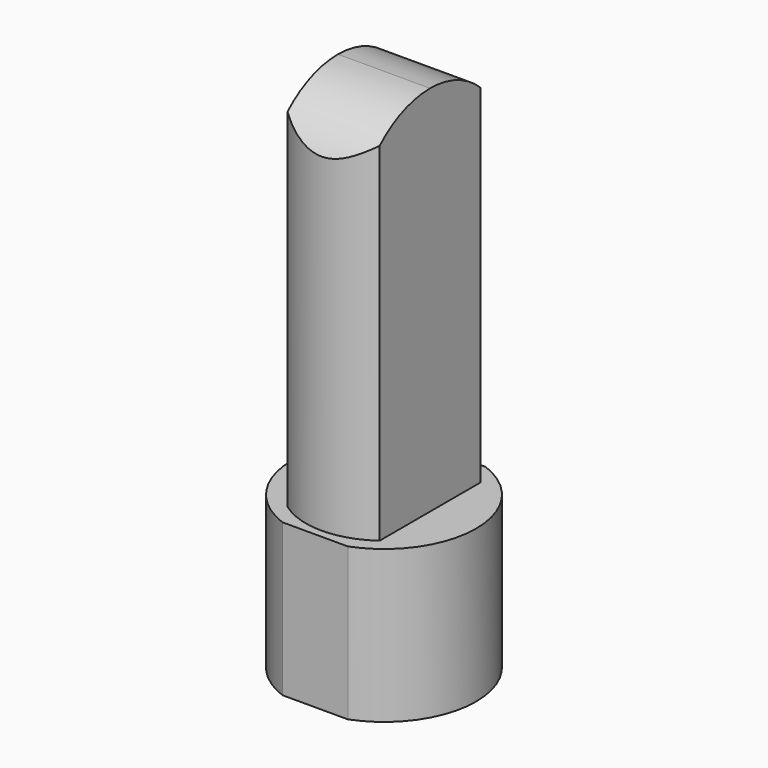
from build123d import *

# Parameters (mm, degrees)
F1_DEPTH = 38
F2_R     = 20.15
F3_DEPTH = 26
F5_DEPTH = 93
F7_DEPTH = 12.5


with BuildPart() as f1:
    # F0 (on Top) → F1 (new body)
    with BuildSketch(Plane.XY):
        with BuildLine():
            Line((8.170067, 21.5), (-8.170067, 21.5))
            ThreePointArc((-8.170067, 21.5), (-23, 0), (-8.170067, -21.5))
            Line((-8.170067, -21.5), (8.170067, -21.5))
            ThreePointArc((8.170067, -21.5), (23, 0), (8.170067, 21.5))
        make_face()
    extrude(amount=F1_DEPTH)

    # F2 (on Top) → F3 (cut)
    with BuildSketch(Plane.XY):
        Circle(F2_R)
    extrude(amount=F3_DEPTH, mode=Mode.SUBTRACT)

    # F4 (on face) → F5 (join)
    with BuildSketch(Plane.XY.offset(38)):
        with BuildLine():
            Line((-11.5, 15.748016), (-11.5, -15.748016))
            ThreePointArc((-11.5, -15.748016), (0, -19.5), (11.5, -15.748016))
            Line((11.5, -15.748016), (11.5, 15.748016))
            ThreePointArc((11.5, 15.748016), (0, 19.5), (-11.5, 15.748016))
        make_face()
    extrude(amount=F5_DEPTH)

    # F6 (on Right) → F7 (cut, symmetric)
    with BuildSketch(Plane.YZ):
        with BuildLine():
            ThreePointArc((-22.999116, 108.201703), (-1.699073, 130.937157), (22.718376, 111.588232))
            Line((22.718376, 111.588232), (37.946451, 148.263738))
            Line((37.946451, 148.263738), (-40.642913, 148.263738))
            Line((-40.642913, 148.263738), (-22.999116, 108.201703))
        make_face()
    extrude(amount=F7_DEPTH, both=True, mode=Mode.SUBTRACT)


solid = f1.part
